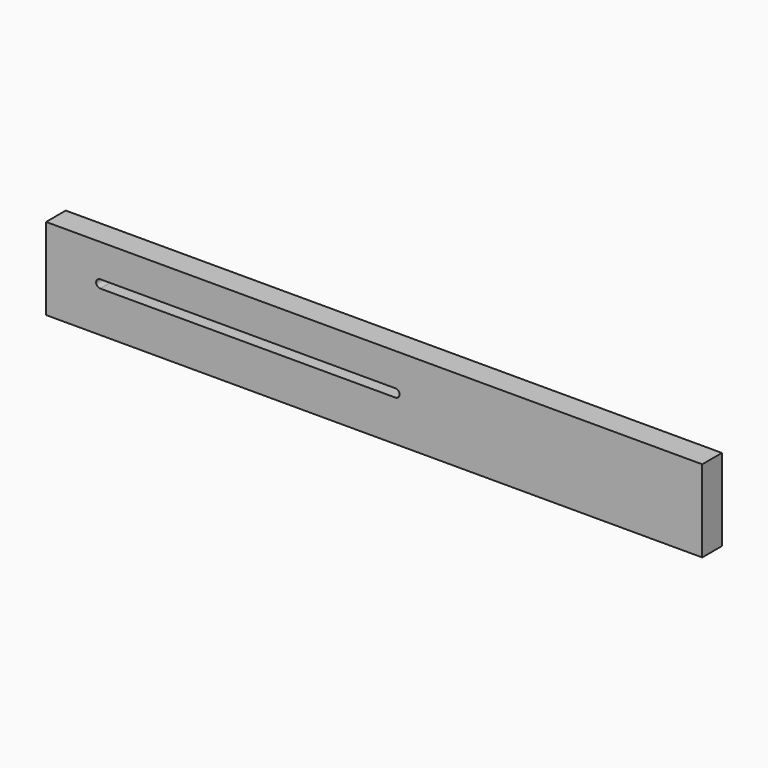
from build123d import *

# Parameters (mm, degrees)
F0_W     = 508
F0_H     = 63.5
F1_DEPTH = 19.05
F2_W     = 228.6
F2_H     = 6.35
F3_DEPTH = 19.051


with BuildPart() as f1:
    # F0 (on Front) → F1 (new body)
    with BuildSketch(Plane.XZ):
        with Locations((254, 31.75)):
            Rectangle(F0_W, F0_H)
    extrude(amount=F1_DEPTH)

    # F2 (on face) → F3 (cut, through all)
    with BuildSketch(Plane.XZ.offset(19.05)):
        with Locations((156.224737, 34.890542)):
            Rectangle(F2_W, F2_H)
        with BuildLine():
            ThreePointArc((41.924737, 38.065542), (38.749737, 34.890542), (41.924737, 31.715542))
            Line((41.924737, 31.715542), (41.924737, 38.065542))
        make_face()
        with BuildLine():
            Line((270.524737, 38.065542), (270.524737, 31.715542))
            ThreePointArc((270.524737, 31.715542), (273.699737, 34.890542), (270.524737, 38.065542))
        make_face()
    extrude(amount=-F3_DEPTH, mode=Mode.SUBTRACT)


solid = f1.part
